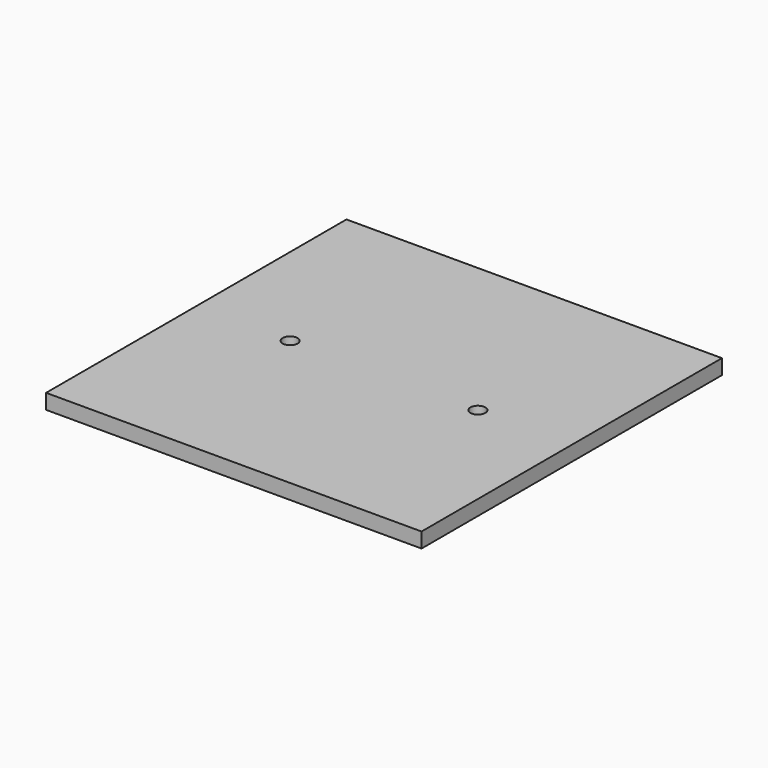
from build123d import *

# Parameters (mm, degrees)
SKETCH_R  = 4
PAD_DEPTH = 8


with BuildPart() as part:
    # Sketch → Pad (new body)
    with BuildSketch(Plane.XY):
        Polygon((0, 100), (100, 100), (100, -100), (-100, -100), (-100, 100), align=None)
        with Locations((-50, 0)):
            Circle(SKETCH_R, mode=Mode.SUBTRACT)
        with Locations((50, 0)):
            Circle(SKETCH_R, mode=Mode.SUBTRACT)
    extrude(amount=PAD_DEPTH)


solid = part.part
